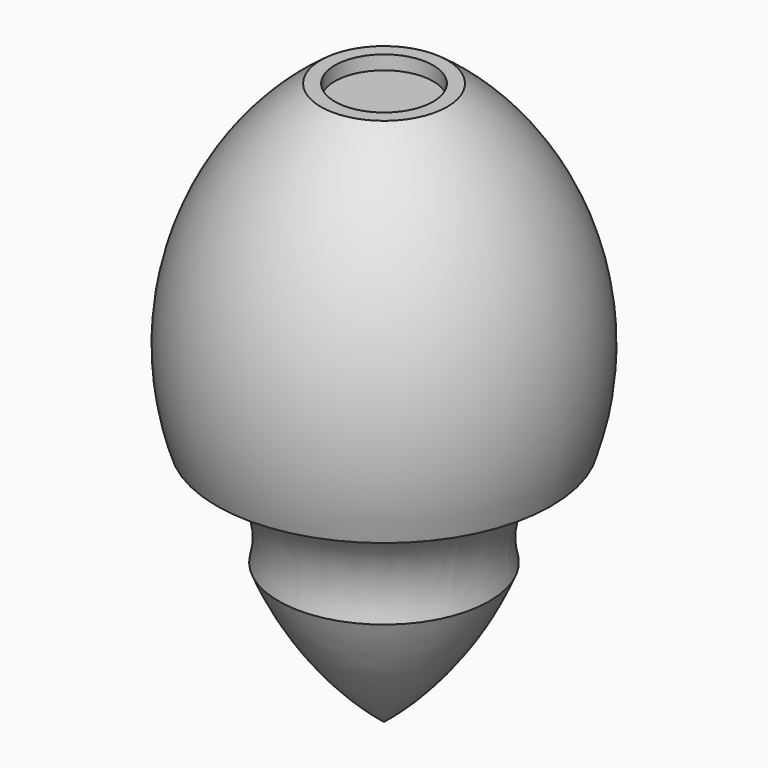
from build123d import *


with BuildPart() as f1:
    # F0 (on Front) → F1 (revolve)
    with BuildSketch(Plane.XZ):
        with BuildLine():
            Line((0, 40), (0, 34.804279))
            Line((0, 34.804279), (23.813851, 34.804279))
            ThreePointArc((23.813851, 34.804279), (23.85386, 59.843029), (9, 80))
            Line((9, 80), (7, 80))
            Line((7, 80), (7, 78))
            Line((7, 78), (0, 78))
            Line((0, 78), (0, 40))
        make_face()
        with BuildLine():
            Line((0, 34.804279), (0, 20))
            Line((0, 20), (15, 20))
            ThreePointArc((15, 20), (16.274008, 29.267348), (23.813851, 34.804279))
            Line((23.813851, 34.804279), (0, 34.804279))
        make_face()
        with BuildLine():
            Line((0, 20), (0, 0))
            ThreePointArc((0, 0), (8.770167, 9.047375), (15, 20))
            Line((15, 20), (0, 20))
        make_face()
    revolve(axis=Axis((0, 0, 40), (0, 0, 1)))


solid = f1.part
